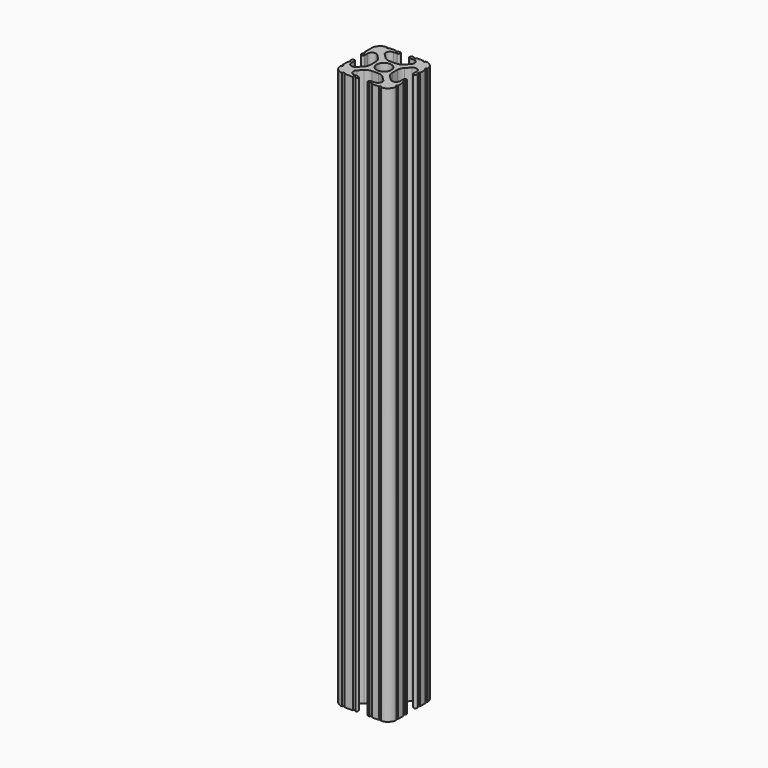
from build123d import *

# Parameters (mm, degrees)
F0_R     = 3.362501
F1_DEPTH = 254


with BuildPart() as f1:
    # F0 (on Top) → F1 (new body)
    with BuildSketch(Plane.XY):
        with BuildLine():
            ThreePointArc((-8.548576, 18.755238), (-9.784629, 17.929334), (-11.242653, 17.639315))
            Line((-11.242653, 17.639315), (-14.157347, 17.639315))
            ThreePointArc((-14.157347, 17.639315), (-15.615371, 17.929334), (-16.851424, 18.755238))
            Line((-16.851424, 18.755238), (-18.696905, 20.600719))
            ThreePointArc((-18.696905, 20.600719), (-19.109857, 22.67677), (-17.349867, 23.852758))
            Line((-17.349867, 23.852758), (-15.615371, 23.852758))
            Line((-15.615371, 23.852758), (-15.58302, 23.852758))
            ThreePointArc((-15.58302, 23.852758), (-14.825405, 24.626379), (-15.58302, 25.4))
            Line((-15.58302, 25.4), (-15.615371, 25.4))
            Line((-15.615371, 25.4), (-16.253341, 25.4))
            ThreePointArc((-16.253341, 25.4), (-16.801604, 24.858772), (-17.349867, 25.4))
            Line((-17.349867, 25.4), (-20.487482, 25.4))
            ThreePointArc((-20.487482, 25.4), (-21.038741, 24.848741), (-21.59, 25.4))
            ThreePointArc((-21.59, 25.4), (-24.284077, 24.284077), (-25.4, 21.59))
            Line((-25.4, 21.59), (-25.4, 20.504724))
            Line((-25.4, 20.504724), (-25.4, 17.349867))
            ThreePointArc((-25.4, 17.349867), (-24.844161, 16.802675), (-25.4, 16.255483))
            Line((-25.4, 16.255483), (-25.4, 15.615371))
            ThreePointArc((-25.4, 15.615371), (-24.626379, 14.859554), (-23.852758, 15.615371))
            Line((-23.852758, 15.615371), (-23.852758, 17.349867))
            ThreePointArc((-23.852758, 17.349867), (-22.67677, 19.109857), (-20.600719, 18.696905))
            Line((-20.600719, 18.696905), (-18.755238, 16.851424))
            ThreePointArc((-18.755238, 16.851424), (-17.929334, 15.615371), (-17.639315, 14.157347))
            Line((-17.639315, 14.157347), (-17.639315, 11.242653))
            ThreePointArc((-17.639315, 11.242653), (-17.929334, 9.784629), (-18.755238, 8.548576))
            Line((-18.755238, 8.548576), (-20.600719, 6.703095))
            ThreePointArc((-20.600719, 6.703095), (-22.67677, 6.290143), (-23.852758, 8.050133))
            Line((-23.852758, 8.050133), (-23.852758, 9.784629))
            ThreePointArc((-23.852758, 9.784629), (-24.626379, 10.55825), (-25.4, 9.784629))
            Line((-25.4, 9.784629), (-25.4, 9.149239))
            ThreePointArc((-25.4, 9.149239), (-24.899374, 8.599686), (-25.4, 8.050133))
            Line((-25.4, 8.050133), (-25.4, 4.904538))
            ThreePointArc((-25.4, 4.904538), (-24.846216, 4.357269), (-25.4, 3.81))
            ThreePointArc((-25.4, 3.81), (-24.284077, 1.115923), (-21.59, 0))
            ThreePointArc((-21.59, 0), (-21.040817, 0.554885), (-20.491634, 0))
            Line((-20.491634, 0), (-16.708169, 0))
            ThreePointArc((-16.708169, 0), (-16.16177, 0.540135), (-15.615371, 0))
            ThreePointArc((-15.615371, 0), (-14.854184, 0.7747), (-15.615371, 1.5494))
            Line((-15.615371, 1.5494), (-17.347709, 1.5494))
            ThreePointArc((-17.347709, 1.5494), (-19.107699, 2.725388), (-18.694747, 4.801438))
            Line((-18.694747, 4.801438), (-16.851424, 6.644762))
            ThreePointArc((-16.851424, 6.644762), (-15.615371, 7.470666), (-14.157347, 7.760685))
            Line((-14.157347, 7.760685), (-11.242653, 7.760685))
            ThreePointArc((-11.242653, 7.760685), (-9.784629, 7.470666), (-8.548576, 6.644762))
            Line((-8.548576, 6.644762), (-6.705253, 4.801438))
            ThreePointArc((-6.705253, 4.801438), (-6.292301, 2.725388), (-8.052291, 1.5494))
            Line((-8.052291, 1.5494), (-9.784629, 1.5494))
            ThreePointArc((-9.784629, 1.5494), (-10.401836, 0.7747), (-9.784629, 0))
            Line((-9.784629, 0), (-9.152868, 0))
            ThreePointArc((-9.152868, 0), (-8.602579, 0.545262), (-8.052291, 0))
            Line((-8.052291, 0), (-4.898866, 0))
            ThreePointArc((-4.898866, 0), (-4.354433, 0.544433), (-3.81, 0))
            ThreePointArc((-3.81, 0), (-1.115923, 1.115923), (0, 3.81))
            ThreePointArc((0, 3.81), (-0.53938, 4.3561), (0, 4.9022))
            Line((0, 4.9022), (0, 8.052291))
            ThreePointArc((0, 8.052291), (-0.543517, 8.60166), (0, 9.151029))
            Line((0, 9.151029), (0, 9.784629))
            ThreePointArc((0, 9.784629), (-0.7747, 10.504691), (-1.5494, 9.784629))
            Line((-1.5494, 9.784629), (-1.5494, 8.052291))
            ThreePointArc((-1.5494, 8.052291), (-2.725388, 6.292301), (-4.801438, 6.705253))
            Line((-4.801438, 6.705253), (-6.644762, 8.548576))
            ThreePointArc((-6.644762, 8.548576), (-7.470666, 9.784629), (-7.760685, 11.242653))
            Line((-7.760685, 11.242653), (-7.760685, 14.157347))
            ThreePointArc((-7.760685, 14.157347), (-7.470666, 15.615371), (-6.644762, 16.851424))
            Line((-6.644762, 16.851424), (-4.801438, 18.694747))
            ThreePointArc((-4.801438, 18.694747), (-2.725388, 19.107699), (-1.5494, 17.347709))
            Line((-1.5494, 17.347709), (-1.5494, 15.615371))
            ThreePointArc((-1.5494, 15.615371), (-0.7747, 14.879405), (0, 15.615371))
            Line((0, 15.615371), (0, 16.255509))
            ThreePointArc((0, 16.255509), (-0.5461, 16.801609), (0, 17.347709))
            Line((0, 17.347709), (0, 20.495165))
            ThreePointArc((0, 20.495165), (-0.551056, 21.042583), (0, 21.59))
            ThreePointArc((0, 21.59), (-1.115923, 24.284077), (-3.81, 25.4))
            ThreePointArc((-3.81, 25.4), (-4.365303, 24.903619), (-4.920606, 25.4))
            Line((-4.920606, 25.4), (-8.050133, 25.4))
            ThreePointArc((-8.050133, 25.4), (-8.596365, 24.859433), (-9.142596, 25.4))
            Line((-9.142596, 25.4), (-9.784629, 25.4))
            Line((-9.784629, 25.4), (-9.856203, 25.4))
            ThreePointArc((-9.856203, 25.4), (-10.594864, 24.626379), (-9.856203, 23.852758))
            Line((-9.856203, 23.852758), (-9.784629, 23.852758))
            Line((-9.784629, 23.852758), (-8.050133, 23.852758))
            ThreePointArc((-8.050133, 23.852758), (-6.290143, 22.67677), (-6.703095, 20.600719))
            Line((-6.703095, 20.600719), (-8.548576, 18.755238))
        make_face()
        with Locations((-12.7, 12.7)):
            Circle(F0_R, mode=Mode.SUBTRACT)
        with BuildLine():
            ThreePointArc((-9.856203, 23.852758), (-9.820416, 23.851931), (-9.784629, 23.852758))
            Line((-9.784629, 23.852758), (-9.856203, 23.852758))
        make_face()
        with BuildLine():
            Line((-15.58302, 23.852758), (-15.615371, 23.852758))
            ThreePointArc((-15.615371, 23.852758), (-15.599195, 23.852589), (-15.58302, 23.852758))
        make_face()
        with BuildLine():
            ThreePointArc((-9.784629, 25.4), (-9.820416, 25.400827), (-9.856203, 25.4))
            Line((-9.856203, 25.4), (-9.784629, 25.4))
        make_face()
        with BuildLine():
            Line((-15.615371, 25.4), (-15.58302, 25.4))
            ThreePointArc((-15.58302, 25.4), (-15.599195, 25.400169), (-15.615371, 25.4))
        make_face()
    extrude(amount=F1_DEPTH)


solid = f1.part
